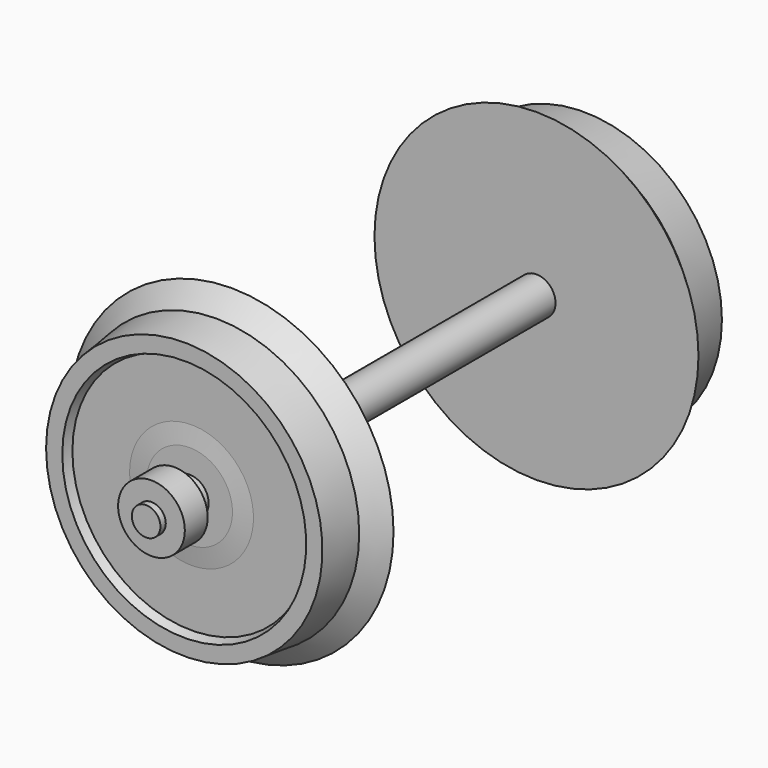
from build123d import *

# Parameters (mm, degrees)
CYLINDER017_R             = 2
CYLINDER017_DEPTH         = 10
CUT011_PLACEMENT_ANGLE    = 180
CYLINDER019_R             = 1.5
CYLINDER019_DEPTH         = 3
CYLINDER018_R             = 3.5
CYLINDER018_DEPTH         = 3
CUT012_PLACEMENT_ANGLE    = 90
CYLINDER015_R             = 1.5
CYLINDER015_DEPTH         = 3
CYLINDER014_R             = 3.5
CYLINDER014_DEPTH         = 3
CUT009_PLACEMENT_ANGLE    = 90
CYLINDER021_R             = 1.5
CYLINDER021_DEPTH         = 62.5
CYLINDER020_R             = 2
CYLINDER020_DEPTH         = 55
FUSION009_PLACEMENT_ANGLE = 90
CYLINDER016_R             = 2
CYLINDER016_DEPTH         = 10


with BuildPart() as cylinder017:
    # Cylinder017 → Cylinder017 (new body)
    with BuildSketch(Plane.XZ.offset(-8)):
        Circle(CYLINDER017_R)
    extrude(amount=CYLINDER017_DEPTH)


with BuildPart() as rad002:
    # Sketch005 → Revolve002 (revolve)
    with BuildSketch(Plane.XY):
        Polygon((0, 0), (17, 0), (15, 2), (14.5, 6.2), (12.8, 6.2), (12.5, 5.25), (6.5, 5.25), (4.5, 5.5), (0, 5.5), align=None)
    revolve(axis=Axis((0, 0, 0), (0, -1, 0)))

    # Cut011: cut Cylinder017
    add(cylinder017.part, mode=Mode.SUBTRACT)


with BuildPart() as rad002_1:
    # Cut011 placement: moved
    add(rad002.part.moved(Location((0, -40, 0))).rotate(Axis((0, -40, 0), (0, 0, 1)), CUT011_PLACEMENT_ANGLE))


with BuildPart() as cylinder019:
    # Cylinder019 → Cylinder019 (new body)
    with BuildSketch(Plane.XY):
        Circle(CYLINDER019_R)
    extrude(amount=CYLINDER019_DEPTH)


with BuildPart() as kugellager002:
    # Cylinder018 → Cylinder018 (new body)
    with BuildSketch(Plane.XY):
        Circle(CYLINDER018_R)
    extrude(amount=CYLINDER018_DEPTH)

    # Cut012: cut Cylinder019
    add(cylinder019.part, mode=Mode.SUBTRACT)


with BuildPart() as kugellager002_1:
    # Cut012 placement: moved
    add(kugellager002.part.moved(Location((0, -47.5, 0))).rotate(Axis((0, -47.5, 0), (1, 0, 0)), CUT012_PLACEMENT_ANGLE))


with BuildPart() as cylinder015:
    # Cylinder015 → Cylinder015 (new body)
    with BuildSketch(Plane.XY):
        Circle(CYLINDER015_R)
    extrude(amount=CYLINDER015_DEPTH)


with BuildPart() as kugellager001:
    # Cylinder014 → Cylinder014 (new body)
    with BuildSketch(Plane.XY):
        Circle(CYLINDER014_R)
    extrude(amount=CYLINDER014_DEPTH)

    # Cut009: cut Cylinder015
    add(cylinder015.part, mode=Mode.SUBTRACT)


with BuildPart() as kugellager001_1:
    # Cut009 placement: moved
    add(kugellager001.part.moved(Location((0, 10.5, 0))).rotate(Axis((0, 10.5, 0), (1, 0, 0)), CUT009_PLACEMENT_ANGLE))


with BuildPart() as cylinder021:
    # Cylinder021 → Cylinder021 (new body)
    with BuildSketch(Plane.XY):
        Circle(CYLINDER021_R)
    extrude(amount=CYLINDER021_DEPTH)


with BuildPart() as achse002:
    # Cylinder020 → Cylinder020 (new body)
    with BuildSketch(Plane.XY.offset(3.75)):
        Circle(CYLINDER020_R)
    extrude(amount=CYLINDER020_DEPTH)

    # Fusion009: union Cylinder021
    add(cylinder021.part)


with BuildPart() as achse002_1:
    # Fusion009 placement: moved
    add(achse002.part.moved(Location((0, 11.3, 0))).rotate(Axis((0, 11.3, 0), (1, 0, 0)), FUSION009_PLACEMENT_ANGLE))


with BuildPart() as cylinder016:
    # Cylinder016 → Cylinder016 (new body)
    with BuildSketch(Plane.XZ.offset(-8)):
        Circle(CYLINDER016_R)
    extrude(amount=CYLINDER016_DEPTH)


with BuildPart() as obj1:
    # Sketch005 → Revolve001 (revolve)
    with BuildSketch(Plane.XY):
        Polygon((0, 0), (17, 0), (15, 2), (14.5, 6.2), (12.8, 6.2), (12.5, 5.25), (6.5, 5.25), (4.5, 5.5), (0, 5.5), align=None)
    revolve(axis=Axis((0, 0, 0), (0, -1, 0)))

    # Cut010: cut Cylinder016
    add(cylinder016.part, mode=Mode.SUBTRACT)

    # Fusion011: union Rad002, Kugellager002, Kugellager001, Achse002
    add(rad002_1.part)
    add(kugellager002_1.part)
    add(kugellager001_1.part)
    add(achse002_1.part)


with BuildPart() as obj1_1:
    # Fusion011 placement: moved
    add(obj1.part.moved(Location((13.92, -11.75, -7))))


solid = obj1_1.part
